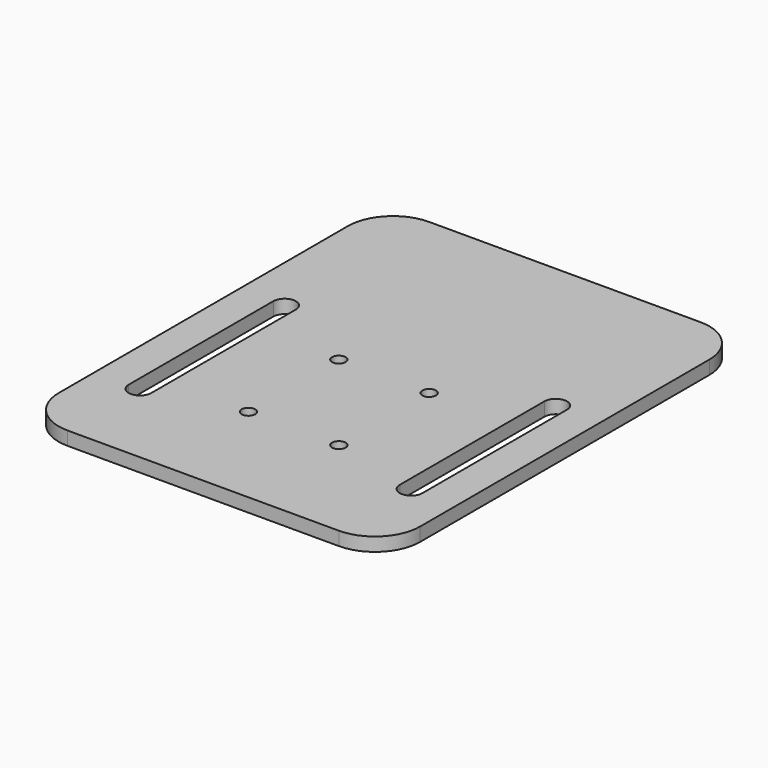
from build123d import *

# Parameters (mm, degrees)
F0_W     = 40
F0_H     = 100
F1_DEPTH = 3
F3_D     = 3
F5_DEPTH = 77.015169
F6_R     = 10


with BuildPart() as f1:
    # F0 (on Top) → F1 (new body)
    with BuildSketch(Plane.XY):
        with Locations((20, 50)):
            Rectangle(F0_W, F0_H)
    extrude(amount=F1_DEPTH)

    # F3 (through all)
    with Locations(Plane.XY.offset(3)):
        with Locations((10, 25), (10, 50)):
            Hole(F3_D / 2)

    # F4 (on face) → F5 (cut)
    with BuildSketch(Plane.XY):
        with BuildLine():
            ThreePointArc((32.5, 60), (30, 62.5), (27.5, 60))
            Line((27.5, 60), (27.5, 20))
            ThreePointArc((27.5, 20), (30, 17.5), (32.5, 20))
            Line((32.5, 20), (32.5, 60))
        make_face()
    extrude(amount=F5_DEPTH, mode=Mode.SUBTRACT)

    # F6
    f6_edges = [f1.edges().sort_by_distance(p)[0] for p in [
        (40, 0, 1.5),
        (40, 100, 1.5),
    ]]
    fillet(f6_edges, radius=F6_R)

    # F7: F1 across plane


with BuildPart() as f1_1:
    add(f1.part)
    add(f1.part.mirror(Plane.YZ))


solid = f1_1.part
